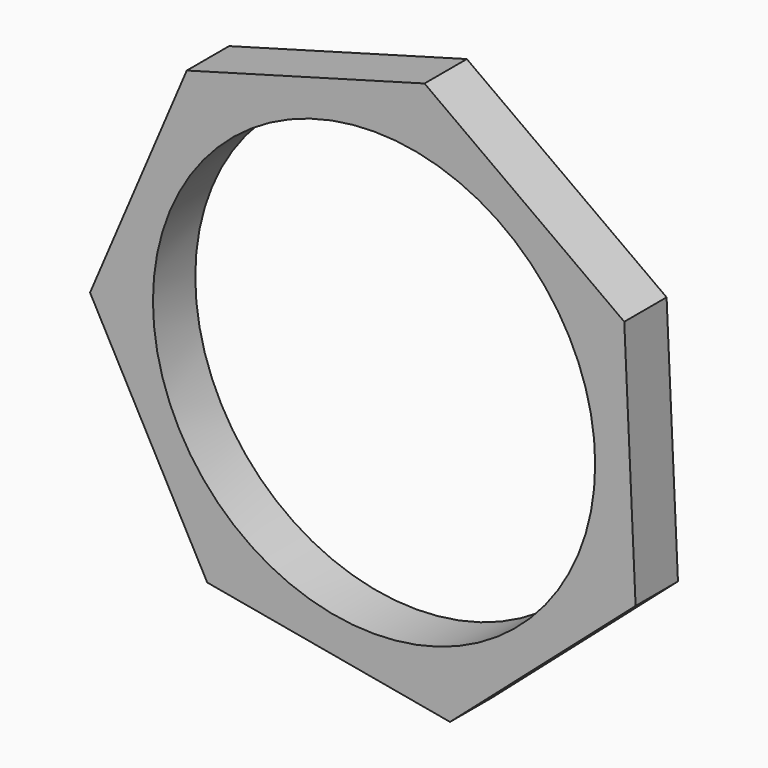
from build123d import *

# Parameters (mm, degrees)
F1_R     = 106.145751
F2_DEPTH = 25.4


with BuildPart() as f2:
    # F1 (on face) → F2 (new body)
    with BuildSketch(Plane.XZ):
        Polygon((172.641336, 115.126468), (58.517822, 83.491787), (12.095964, -25.457471), (68.332369, -129.680292), (184.879876, -150.694766), (273.975836, -72.676566), (268.529173, 45.625013), align=None)
        with Locations((148.424625, -19.180832)):
            Circle(F1_R, mode=Mode.SUBTRACT)
    extrude(amount=F2_DEPTH)


solid = f2.part
